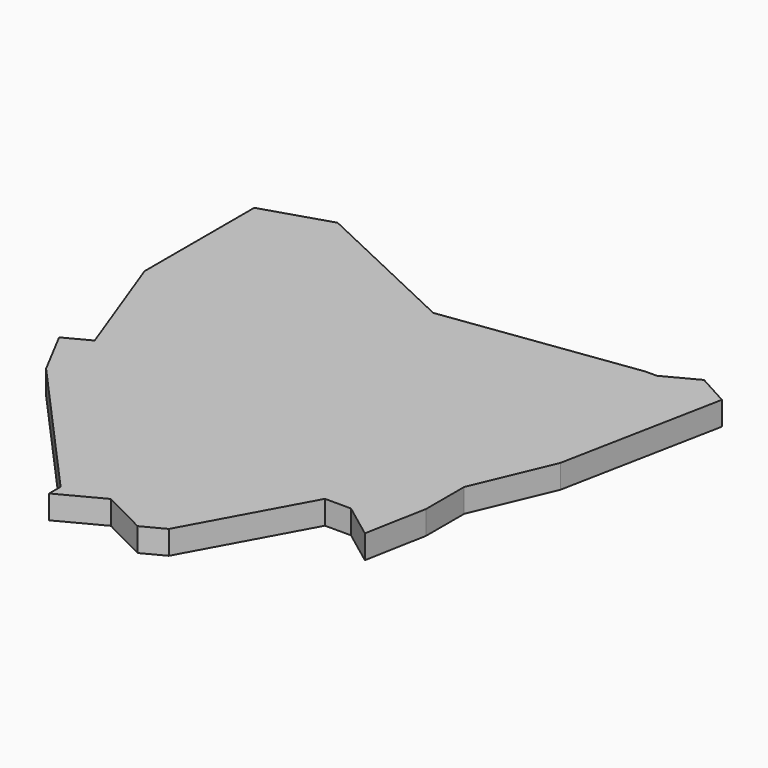
from build123d import *

# Parameters (mm, degrees)
F1_DEPTH = 19


with BuildPart() as f1:
    # F0 (on Top) → F1 (new body)
    with BuildSketch(Plane.XY):
        Polygon((-53.817933, 109.302329), (-177.073741, 167.441853), (-230.56212, 150.631228), (-230.56212, 40.554735), (-196.111157, -52.580424), (-216.211189, -63.159396), (-196.111157, -101.349431), (-88.701652, -221.043084), (-88.701652, -232.558147), (-53.817933, -214.198281), (-17.674405, -232.558147), (0, -223.255821), (50.833234, -130.232553), (71.763457, -130.232553), (99.670441, -151.162793), (108.972775, -101.349431), (108.972775, -63.159396), (135.620132, 0), (161.201518, 130.232553), (135.620132, 144.257488), (108.972775, 130.232553), (99.670441, 130.232553), align=None)
    extrude(amount=F1_DEPTH)


solid = f1.part
